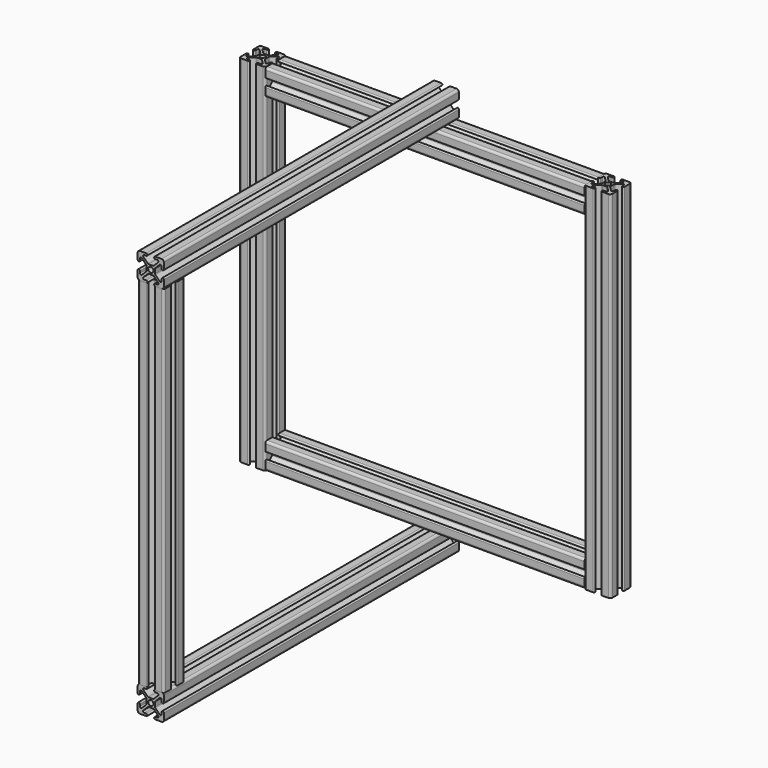
from build123d import *

# Parameters (mm, degrees)
F0_R          = 2.5
F1_DEPTH      = 170
F2_R          = 2.5
F3_DEPTH      = 170
F4_R          = 2.5
F5_DEPTH      = 305.2
F7_R          = 2.5
F8_DEPTH      = 340
F8_DEPTH_BACK = 12.573
F10_R         = 2.5
F11_DEPTH     = 340


with BuildPart() as f1:
    # F0 (on Top) → F1 (new body, symmetric)
    with BuildSketch(Plane.XY):
        with BuildLine():
            ThreePointArc((-10.36, 12.5), (-11.873209, 11.873209), (-12.5, 10.36))
            Line((-12.5, 10.36), (-12.5, 4.32))
            ThreePointArc((-12.5, 4.32), (-11.43, 3.25), (-10.36, 4.32))
            Line((-10.36, 4.32), (-10.36, 6.263583))
            ThreePointArc((-10.36, 6.263583), (-9.699471, 7.252134), (-8.533396, 7.020187))
            Line((-8.533396, 7.020187), (-4.363396, 2.850187))
            ThreePointArc((-4.363396, 2.850187), (-4.131449, 2.503054), (-4.05, 2.093583))
            Line((-4.05, 2.093583), (-4.05, 0))
            Line((-4.05, 0), (-4.05, -2.093583))
            ThreePointArc((-4.05, -2.093583), (-4.131449, -2.503054), (-4.363396, -2.850187))
            Line((-4.363396, -2.850187), (-8.533396, -7.020187))
            ThreePointArc((-8.533396, -7.020187), (-9.699471, -7.252134), (-10.36, -6.263583))
            Line((-10.36, -6.263583), (-10.36, -4.32))
            ThreePointArc((-10.36, -4.32), (-11.43, -3.25), (-12.5, -4.32))
            Line((-12.5, -4.32), (-12.5, -10.36))
            ThreePointArc((-12.5, -10.36), (-11.873209, -11.873209), (-10.36, -12.5))
            Line((-10.36, -12.5), (-4.32, -12.5))
            ThreePointArc((-4.32, -12.5), (-3.25, -11.43), (-4.32, -10.36))
            Line((-4.32, -10.36), (-6.263583, -10.36))
            ThreePointArc((-6.263583, -10.36), (-7.252134, -9.699471), (-7.020187, -8.533396))
            Line((-7.020187, -8.533396), (-2.850187, -4.363396))
            ThreePointArc((-2.850187, -4.363396), (-2.503054, -4.131449), (-2.093583, -4.05))
            Line((-2.093583, -4.05), (0, -4.05))
            Line((0, -4.05), (2.093583, -4.05))
            ThreePointArc((2.093583, -4.05), (2.503054, -4.131449), (2.850187, -4.363396))
            Line((2.850187, -4.363396), (7.020187, -8.533396))
            ThreePointArc((7.020187, -8.533396), (7.252134, -9.699471), (6.263583, -10.36))
            Line((6.263583, -10.36), (4.32, -10.36))
            ThreePointArc((4.32, -10.36), (3.25, -11.43), (4.32, -12.5))
            Line((4.32, -12.5), (10.36, -12.5))
            ThreePointArc((10.36, -12.5), (11.873209, -11.873209), (12.5, -10.36))
            Line((12.5, -10.36), (12.5, -4.32))
            ThreePointArc((12.5, -4.32), (11.43, -3.25), (10.36, -4.32))
            Line((10.36, -4.32), (10.36, -6.263583))
            ThreePointArc((10.36, -6.263583), (9.699471, -7.252134), (8.533396, -7.020187))
            Line((8.533396, -7.020187), (4.363396, -2.850187))
            ThreePointArc((4.363396, -2.850187), (4.131449, -2.503054), (4.05, -2.093583))
            Line((4.05, -2.093583), (4.05, 0))
            Line((4.05, 0), (4.05, 2.093583))
            ThreePointArc((4.05, 2.093583), (4.131449, 2.503054), (4.363396, 2.850187))
            Line((4.363396, 2.850187), (8.533396, 7.020187))
            ThreePointArc((8.533396, 7.020187), (9.699471, 7.252134), (10.36, 6.263583))
            Line((10.36, 6.263583), (10.36, 4.32))
            ThreePointArc((10.36, 4.32), (11.43, 3.25), (12.5, 4.32))
            Line((12.5, 4.32), (12.5, 10.36))
            ThreePointArc((12.5, 10.36), (11.873209, 11.873209), (10.36, 12.5))
            Line((10.36, 12.5), (4.32, 12.5))
            ThreePointArc((4.32, 12.5), (3.25, 11.43), (4.32, 10.36))
            Line((4.32, 10.36), (6.263583, 10.36))
            ThreePointArc((6.263583, 10.36), (7.252134, 9.699471), (7.020187, 8.533396))
            Line((7.020187, 8.533396), (2.850187, 4.363396))
            ThreePointArc((2.850187, 4.363396), (2.503054, 4.131449), (2.093583, 4.05))
            Line((2.093583, 4.05), (0, 4.05))
            Line((0, 4.05), (-2.093583, 4.05))
            ThreePointArc((-2.093583, 4.05), (-2.503054, 4.131449), (-2.850187, 4.363396))
            Line((-2.850187, 4.363396), (-7.020187, 8.533396))
            ThreePointArc((-7.020187, 8.533396), (-7.252134, 9.699471), (-6.263583, 10.36))
            Line((-6.263583, 10.36), (-4.32, 10.36))
            ThreePointArc((-4.32, 10.36), (-3.25, 11.43), (-4.32, 12.5))
            Line((-4.32, 12.5), (-10.36, 12.5))
        make_face()
        Circle(F0_R, mode=Mode.SUBTRACT)
    extrude(amount=F1_DEPTH, both=True)


with BuildPart() as f3:
    # F2 (on Top) → F3 (new body, symmetric)
    with BuildSketch(Plane.XY):
        with BuildLine():
            ThreePointArc((319.84, 12.5), (318.326791, 11.873209), (317.7, 10.36))
            Line((317.7, 10.36), (317.7, 4.32))
            ThreePointArc((317.7, 4.32), (318.77, 3.25), (319.84, 4.32))
            Line((319.84, 4.32), (319.84, 6.263583))
            ThreePointArc((319.84, 6.263583), (320.500529, 7.252134), (321.666604, 7.020187))
            Line((321.666604, 7.020187), (325.836604, 2.850187))
            ThreePointArc((325.836604, 2.850187), (326.068551, 2.503054), (326.15, 2.093583))
            Line((326.15, 2.093583), (326.15, 0))
            Line((326.15, 0), (326.15, -2.093583))
            ThreePointArc((326.15, -2.093583), (326.068551, -2.503054), (325.836604, -2.850187))
            Line((325.836604, -2.850187), (321.666604, -7.020187))
            ThreePointArc((321.666604, -7.020187), (320.500529, -7.252134), (319.84, -6.263583))
            Line((319.84, -6.263583), (319.84, -4.32))
            ThreePointArc((319.84, -4.32), (318.77, -3.25), (317.7, -4.32))
            Line((317.7, -4.32), (317.7, -10.36))
            ThreePointArc((317.7, -10.36), (318.326791, -11.873209), (319.84, -12.5))
            Line((319.84, -12.5), (325.88, -12.5))
            ThreePointArc((325.88, -12.5), (326.95, -11.43), (325.88, -10.36))
            Line((325.88, -10.36), (323.936417, -10.36))
            ThreePointArc((323.936417, -10.36), (322.947866, -9.699471), (323.179813, -8.533396))
            Line((323.179813, -8.533396), (327.349813, -4.363396))
            ThreePointArc((327.349813, -4.363396), (327.696946, -4.131449), (328.106417, -4.05))
            Line((328.106417, -4.05), (330.2, -4.05))
            Line((330.2, -4.05), (332.293583, -4.05))
            ThreePointArc((332.293583, -4.05), (332.703054, -4.131449), (333.050187, -4.363396))
            Line((333.050187, -4.363396), (337.220187, -8.533396))
            ThreePointArc((337.220187, -8.533396), (337.452134, -9.699471), (336.463583, -10.36))
            Line((336.463583, -10.36), (334.52, -10.36))
            ThreePointArc((334.52, -10.36), (333.45, -11.43), (334.52, -12.5))
            Line((334.52, -12.5), (340.56, -12.5))
            ThreePointArc((340.56, -12.5), (342.073209, -11.873209), (342.7, -10.36))
            Line((342.7, -10.36), (342.7, -4.32))
            ThreePointArc((342.7, -4.32), (341.63, -3.25), (340.56, -4.32))
            Line((340.56, -4.32), (340.56, -6.263583))
            ThreePointArc((340.56, -6.263583), (339.899471, -7.252134), (338.733396, -7.020187))
            Line((338.733396, -7.020187), (334.563396, -2.850187))
            ThreePointArc((334.563396, -2.850187), (334.331449, -2.503054), (334.25, -2.093583))
            Line((334.25, -2.093583), (334.25, 0))
            Line((334.25, 0), (334.25, 2.093583))
            ThreePointArc((334.25, 2.093583), (334.331449, 2.503054), (334.563396, 2.850187))
            Line((334.563396, 2.850187), (338.733396, 7.020187))
            ThreePointArc((338.733396, 7.020187), (339.899471, 7.252134), (340.56, 6.263583))
            Line((340.56, 6.263583), (340.56, 4.32))
            ThreePointArc((340.56, 4.32), (341.63, 3.25), (342.7, 4.32))
            Line((342.7, 4.32), (342.7, 10.36))
            ThreePointArc((342.7, 10.36), (342.073209, 11.873209), (340.56, 12.5))
            Line((340.56, 12.5), (334.52, 12.5))
            ThreePointArc((334.52, 12.5), (333.45, 11.43), (334.52, 10.36))
            Line((334.52, 10.36), (336.463583, 10.36))
            ThreePointArc((336.463583, 10.36), (337.452134, 9.699471), (337.220187, 8.533396))
            Line((337.220187, 8.533396), (333.050187, 4.363396))
            ThreePointArc((333.050187, 4.363396), (332.703054, 4.131449), (332.293583, 4.05))
            Line((332.293583, 4.05), (330.2, 4.05))
            Line((330.2, 4.05), (328.106417, 4.05))
            ThreePointArc((328.106417, 4.05), (327.696946, 4.131449), (327.349813, 4.363396))
            Line((327.349813, 4.363396), (323.179813, 8.533396))
            ThreePointArc((323.179813, 8.533396), (322.947866, 9.699471), (323.936417, 10.36))
            Line((323.936417, 10.36), (325.88, 10.36))
            ThreePointArc((325.88, 10.36), (326.95, 11.43), (325.88, 12.5))
            Line((325.88, 12.5), (319.84, 12.5))
        make_face()
        with Locations((330.2, 0)):
            Circle(F2_R, mode=Mode.SUBTRACT)
    extrude(amount=F3_DEPTH, both=True)


with BuildPart() as f5:
    # F4 (on face) → F5 (new body, through all)
    with BuildSketch(Plane(origin=(317.7, 0, 0), x_dir=(0, -1, 0), z_dir=(-1, 0, 0))):
        with BuildLine():
            ThreePointArc((-10.433, -144.8), (-11.946209, -145.426791), (-12.573, -146.94))
            Line((-12.573, -146.94), (-12.573, -152.98))
            ThreePointArc((-12.573, -152.98), (-11.503, -154.05), (-10.433, -152.98))
            Line((-10.433, -152.98), (-10.433, -151.036417))
            ThreePointArc((-10.433, -151.036417), (-9.772471, -150.047866), (-8.606396, -150.279813))
            Line((-8.606396, -150.279813), (-4.436396, -154.449813))
            ThreePointArc((-4.436396, -154.449813), (-4.204449, -154.796946), (-4.123, -155.206417))
            Line((-4.123, -155.206417), (-4.123, -157.3))
            Line((-4.123, -157.3), (-4.123, -159.393583))
            ThreePointArc((-4.123, -159.393583), (-4.204449, -159.803054), (-4.436396, -160.150187))
            Line((-4.436396, -160.150187), (-8.606396, -164.320187))
            ThreePointArc((-8.606396, -164.320187), (-9.772471, -164.552134), (-10.433, -163.563583))
            Line((-10.433, -163.563583), (-10.433, -161.62))
            ThreePointArc((-10.433, -161.62), (-11.503, -160.55), (-12.573, -161.62))
            Line((-12.573, -161.62), (-12.573, -167.66))
            ThreePointArc((-12.573, -167.66), (-11.946209, -169.173209), (-10.433, -169.8))
            Line((-10.433, -169.8), (-4.393, -169.8))
            ThreePointArc((-4.393, -169.8), (-3.323, -168.73), (-4.393, -167.66))
            Line((-4.393, -167.66), (-6.336583, -167.66))
            ThreePointArc((-6.336583, -167.66), (-7.325134, -166.999471), (-7.093187, -165.833396))
            Line((-7.093187, -165.833396), (-2.923187, -161.663396))
            ThreePointArc((-2.923187, -161.663396), (-2.576054, -161.431449), (-2.166583, -161.35))
            Line((-2.166583, -161.35), (-0.073, -161.35))
            Line((-0.073, -161.35), (2.020583, -161.35))
            ThreePointArc((2.020583, -161.35), (2.430054, -161.431449), (2.777187, -161.663396))
            Line((2.777187, -161.663396), (6.947187, -165.833396))
            ThreePointArc((6.947187, -165.833396), (7.179134, -166.999471), (6.190583, -167.66))
            Line((6.190583, -167.66), (4.247, -167.66))
            ThreePointArc((4.247, -167.66), (3.177, -168.73), (4.247, -169.8))
            Line((4.247, -169.8), (10.287, -169.8))
            ThreePointArc((10.287, -169.8), (11.800209, -169.173209), (12.427, -167.66))
            Line((12.427, -167.66), (12.427, -161.62))
            ThreePointArc((12.427, -161.62), (11.357, -160.55), (10.287, -161.62))
            Line((10.287, -161.62), (10.287, -163.563583))
            ThreePointArc((10.287, -163.563583), (9.626471, -164.552134), (8.460396, -164.320187))
            Line((8.460396, -164.320187), (4.290396, -160.150187))
            ThreePointArc((4.290396, -160.150187), (4.058449, -159.803054), (3.977, -159.393583))
            Line((3.977, -159.393583), (3.977, -157.3))
            Line((3.977, -157.3), (3.977, -155.206417))
            ThreePointArc((3.977, -155.206417), (4.058449, -154.796946), (4.290396, -154.449813))
            Line((4.290396, -154.449813), (8.460396, -150.279813))
            ThreePointArc((8.460396, -150.279813), (9.626471, -150.047866), (10.287, -151.036417))
            Line((10.287, -151.036417), (10.287, -152.98))
            ThreePointArc((10.287, -152.98), (11.357, -154.05), (12.427, -152.98))
            Line((12.427, -152.98), (12.427, -146.94))
            ThreePointArc((12.427, -146.94), (11.800209, -145.426791), (10.287, -144.8))
            Line((10.287, -144.8), (4.247, -144.8))
            ThreePointArc((4.247, -144.8), (3.177, -145.87), (4.247, -146.94))
            Line((4.247, -146.94), (6.190583, -146.94))
            ThreePointArc((6.190583, -146.94), (7.179134, -147.600529), (6.947187, -148.766604))
            Line((6.947187, -148.766604), (2.777187, -152.936604))
            ThreePointArc((2.777187, -152.936604), (2.430054, -153.168551), (2.020583, -153.25))
            Line((2.020583, -153.25), (-0.073, -153.25))
            Line((-0.073, -153.25), (-2.166583, -153.25))
            ThreePointArc((-2.166583, -153.25), (-2.576054, -153.168551), (-2.923187, -152.936604))
            Line((-2.923187, -152.936604), (-7.093187, -148.766604))
            ThreePointArc((-7.093187, -148.766604), (-7.325134, -147.600529), (-6.336583, -146.94))
            Line((-6.336583, -146.94), (-4.393, -146.94))
            ThreePointArc((-4.393, -146.94), (-3.323, -145.87), (-4.393, -144.8))
            Line((-4.393, -144.8), (-10.433, -144.8))
        make_face()
        with Locations((-0.073, -157.3)):
            Circle(F4_R, mode=Mode.SUBTRACT)
    extrude(amount=F5_DEPTH)


with BuildPart() as f6_1:
    # F6: instance of F5
    add(f5.part.mirror(Plane.XY))


with BuildPart() as f8:
    # F7 (on Front) → F8 (new body, two sides)
    with BuildSketch(Plane.XZ) as f8_sk:
        with BuildLine():
            ThreePointArc((154.74, 194.8), (153.226791, 194.173209), (152.6, 192.66))
            Line((152.6, 192.66), (152.6, 186.62))
            ThreePointArc((152.6, 186.62), (153.67, 185.55), (154.74, 186.62))
            Line((154.74, 186.62), (154.74, 188.563583))
            ThreePointArc((154.74, 188.563583), (155.400529, 189.552134), (156.566604, 189.320187))
            Line((156.566604, 189.320187), (160.736604, 185.150187))
            ThreePointArc((160.736604, 185.150187), (160.968551, 184.803054), (161.05, 184.393583))
            Line((161.05, 184.393583), (161.05, 182.3))
            Line((161.05, 182.3), (161.05, 180.206417))
            ThreePointArc((161.05, 180.206417), (160.968551, 179.796946), (160.736604, 179.449813))
            Line((160.736604, 179.449813), (156.566604, 175.279813))
            ThreePointArc((156.566604, 175.279813), (155.400529, 175.047866), (154.74, 176.036417))
            Line((154.74, 176.036417), (154.74, 177.98))
            ThreePointArc((154.74, 177.98), (153.67, 179.05), (152.6, 177.98))
            Line((152.6, 177.98), (152.6, 171.94))
            ThreePointArc((152.6, 171.94), (153.226791, 170.426791), (154.74, 169.8))
            Line((154.74, 169.8), (160.78, 169.8))
            ThreePointArc((160.78, 169.8), (161.85, 170.87), (160.78, 171.94))
            Line((160.78, 171.94), (158.836417, 171.94))
            ThreePointArc((158.836417, 171.94), (157.847866, 172.600529), (158.079813, 173.766604))
            Line((158.079813, 173.766604), (162.249813, 177.936604))
            ThreePointArc((162.249813, 177.936604), (162.596946, 178.168551), (163.006417, 178.25))
            Line((163.006417, 178.25), (165.1, 178.25))
            Line((165.1, 178.25), (167.193583, 178.25))
            ThreePointArc((167.193583, 178.25), (167.603054, 178.168551), (167.950187, 177.936604))
            Line((167.950187, 177.936604), (172.120187, 173.766604))
            ThreePointArc((172.120187, 173.766604), (172.352134, 172.600529), (171.363583, 171.94))
            Line((171.363583, 171.94), (169.42, 171.94))
            ThreePointArc((169.42, 171.94), (168.35, 170.87), (169.42, 169.8))
            Line((169.42, 169.8), (175.46, 169.8))
            ThreePointArc((175.46, 169.8), (176.973209, 170.426791), (177.6, 171.94))
            Line((177.6, 171.94), (177.6, 177.98))
            ThreePointArc((177.6, 177.98), (176.53, 179.05), (175.46, 177.98))
            Line((175.46, 177.98), (175.46, 176.036417))
            ThreePointArc((175.46, 176.036417), (174.799471, 175.047866), (173.633396, 175.279813))
            Line((173.633396, 175.279813), (169.463396, 179.449813))
            ThreePointArc((169.463396, 179.449813), (169.231449, 179.796946), (169.15, 180.206417))
            Line((169.15, 180.206417), (169.15, 182.3))
            Line((169.15, 182.3), (169.15, 184.393583))
            ThreePointArc((169.15, 184.393583), (169.231449, 184.803054), (169.463396, 185.150187))
            Line((169.463396, 185.150187), (173.633396, 189.320187))
            ThreePointArc((173.633396, 189.320187), (174.799471, 189.552134), (175.46, 188.563583))
            Line((175.46, 188.563583), (175.46, 186.62))
            ThreePointArc((175.46, 186.62), (176.53, 185.55), (177.6, 186.62))
            Line((177.6, 186.62), (177.6, 192.66))
            ThreePointArc((177.6, 192.66), (176.973209, 194.173209), (175.46, 194.8))
            Line((175.46, 194.8), (169.42, 194.8))
            ThreePointArc((169.42, 194.8), (168.35, 193.73), (169.42, 192.66))
            Line((169.42, 192.66), (171.363583, 192.66))
            ThreePointArc((171.363583, 192.66), (172.352134, 191.999471), (172.120187, 190.833396))
            Line((172.120187, 190.833396), (167.950187, 186.663396))
            ThreePointArc((167.950187, 186.663396), (167.603054, 186.431449), (167.193583, 186.35))
            Line((167.193583, 186.35), (165.1, 186.35))
            Line((165.1, 186.35), (163.006417, 186.35))
            ThreePointArc((163.006417, 186.35), (162.596946, 186.431449), (162.249813, 186.663396))
            Line((162.249813, 186.663396), (158.079813, 190.833396))
            ThreePointArc((158.079813, 190.833396), (157.847866, 191.999471), (158.836417, 192.66))
            Line((158.836417, 192.66), (160.78, 192.66))
            ThreePointArc((160.78, 192.66), (161.85, 193.73), (160.78, 194.8))
            Line((160.78, 194.8), (154.74, 194.8))
        make_face()
        with Locations((165.1, 182.3)):
            Circle(F7_R, mode=Mode.SUBTRACT)
    extrude(amount=F8_DEPTH)
    extrude(f8_sk.sketch, amount=-F8_DEPTH_BACK)


with BuildPart() as f9_1:
    # F9: instance of F8
    add(f8.part.mirror(Plane.XY))


with BuildPart() as f11:
    # F10 (on face) → F11 (new body)
    with BuildSketch(Plane(origin=(0, 0, 169.8), x_dir=(1, 0, 0), z_dir=(0, 0, -1))):
        with BuildLine():
            ThreePointArc((154.74, 340), (153.226791, 339.373209), (152.6, 337.86))
            Line((152.6, 337.86), (152.6, 331.82))
            ThreePointArc((152.6, 331.82), (153.67, 330.75), (154.74, 331.82))
            Line((154.74, 331.82), (154.74, 333.763583))
            ThreePointArc((154.74, 333.763583), (155.400529, 334.752134), (156.566604, 334.520187))
            Line((156.566604, 334.520187), (160.736604, 330.350187))
            ThreePointArc((160.736604, 330.350187), (160.968551, 330.003054), (161.05, 329.593583))
            Line((161.05, 329.593583), (161.05, 327.5))
            Line((161.05, 327.5), (161.05, 325.406417))
            ThreePointArc((161.05, 325.406417), (160.968551, 324.996946), (160.736604, 324.649813))
            Line((160.736604, 324.649813), (156.566604, 320.479813))
            ThreePointArc((156.566604, 320.479813), (155.400529, 320.247866), (154.74, 321.236417))
            Line((154.74, 321.236417), (154.74, 323.18))
            ThreePointArc((154.74, 323.18), (153.67, 324.25), (152.6, 323.18))
            Line((152.6, 323.18), (152.6, 317.14))
            ThreePointArc((152.6, 317.14), (153.226791, 315.626791), (154.74, 315))
            Line((154.74, 315), (160.78, 315))
            ThreePointArc((160.78, 315), (161.85, 316.07), (160.78, 317.14))
            Line((160.78, 317.14), (158.836417, 317.14))
            ThreePointArc((158.836417, 317.14), (157.847866, 317.800529), (158.079813, 318.966604))
            Line((158.079813, 318.966604), (162.249813, 323.136604))
            ThreePointArc((162.249813, 323.136604), (162.596946, 323.368551), (163.006417, 323.45))
            Line((163.006417, 323.45), (165.1, 323.45))
            Line((165.1, 323.45), (167.193583, 323.45))
            ThreePointArc((167.193583, 323.45), (167.603054, 323.368551), (167.950187, 323.136604))
            Line((167.950187, 323.136604), (172.120187, 318.966604))
            ThreePointArc((172.120187, 318.966604), (172.352134, 317.800529), (171.363583, 317.14))
            Line((171.363583, 317.14), (169.42, 317.14))
            ThreePointArc((169.42, 317.14), (168.35, 316.07), (169.42, 315))
            Line((169.42, 315), (175.46, 315))
            ThreePointArc((175.46, 315), (176.973209, 315.626791), (177.6, 317.14))
            Line((177.6, 317.14), (177.6, 323.18))
            ThreePointArc((177.6, 323.18), (176.53, 324.25), (175.46, 323.18))
            Line((175.46, 323.18), (175.46, 321.236417))
            ThreePointArc((175.46, 321.236417), (174.799471, 320.247866), (173.633396, 320.479813))
            Line((173.633396, 320.479813), (169.463396, 324.649813))
            ThreePointArc((169.463396, 324.649813), (169.231449, 324.996946), (169.15, 325.406417))
            Line((169.15, 325.406417), (169.15, 327.5))
            Line((169.15, 327.5), (169.15, 329.593583))
            ThreePointArc((169.15, 329.593583), (169.231449, 330.003054), (169.463396, 330.350187))
            Line((169.463396, 330.350187), (173.633396, 334.520187))
            ThreePointArc((173.633396, 334.520187), (174.799471, 334.752134), (175.46, 333.763583))
            Line((175.46, 333.763583), (175.46, 331.82))
            ThreePointArc((175.46, 331.82), (176.53, 330.75), (177.6, 331.82))
            Line((177.6, 331.82), (177.6, 337.86))
            ThreePointArc((177.6, 337.86), (176.973209, 339.373209), (175.46, 340))
            Line((175.46, 340), (169.42, 340))
            ThreePointArc((169.42, 340), (168.35, 338.93), (169.42, 337.86))
            Line((169.42, 337.86), (171.363583, 337.86))
            ThreePointArc((171.363583, 337.86), (172.352134, 337.199471), (172.120187, 336.033396))
            Line((172.120187, 336.033396), (167.950187, 331.863396))
            ThreePointArc((167.950187, 331.863396), (167.603054, 331.631449), (167.193583, 331.55))
            Line((167.193583, 331.55), (165.1, 331.55))
            Line((165.1, 331.55), (163.006417, 331.55))
            ThreePointArc((163.006417, 331.55), (162.596946, 331.631449), (162.249813, 331.863396))
            Line((162.249813, 331.863396), (158.079813, 336.033396))
            ThreePointArc((158.079813, 336.033396), (157.847866, 337.199471), (158.836417, 337.86))
            Line((158.836417, 337.86), (160.78, 337.86))
            ThreePointArc((160.78, 337.86), (161.85, 338.93), (160.78, 340))
            Line((160.78, 340), (154.74, 340))
        make_face()
        with Locations((165.1, 327.5)):
            Circle(F10_R, mode=Mode.SUBTRACT)
    extrude(amount=F11_DEPTH)


solid = Compound([f1.part, f3.part, f5.part, f6_1.part, f8.part, f9_1.part, f11.part])
